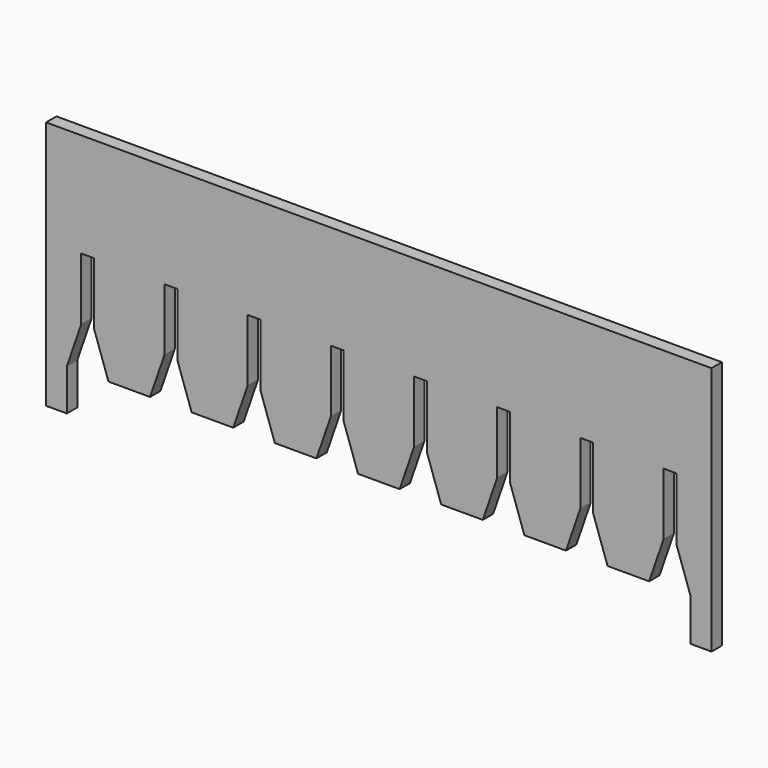
from build123d import *

# Parameters (mm, degrees)
F0_W     = 152.4
F0_H     = 25.4
F1_DEPTH = 1.5875
F3_DEPTH = 1.5885
F4_W     = 71.12
F4_H     = 25.4
F5_DEPTH = 1.5885
F6_W     = 2.54
F6_H     = 5.08
F7_DEPTH = 1.5875


with BuildPart() as f1:
    # F0 (on Front) → F1 (new body)
    with BuildSketch(Plane.XZ):
        with Locations((76.2, 12.7)):
            Rectangle(F0_W, F0_H)
    extrude(amount=F1_DEPTH)

    # F2 (on Front) → F3 (cut, through all)
    with BuildSketch(Plane.XZ):
        Polygon((4.2926, 5.08), (2.54, 0), (7.62, 0), (5.8674, 5.08), (5.8674, 12.7), (4.2926, 12.7), align=None)
        Polygon((14.4526, 5.08), (12.7, 0), (17.78, 0), (16.0274, 5.08), (16.0274, 12.7), (14.4526, 12.7), align=None)
        Polygon((24.6126, 5.08), (22.86, 0), (27.94, 0), (26.1874, 5.08), (26.1874, 12.7), (24.6126, 12.7), align=None)
        Polygon((34.7726, 5.08), (33.02, 0), (38.1, 0), (36.3474, 5.08), (36.3474, 12.7), (34.7726, 12.7), align=None)
        Polygon((44.9326, 5.08), (43.18, 0), (48.26, 0), (46.5074, 5.08), (46.5074, 12.7), (44.9326, 12.7), align=None)
        Polygon((55.0926, 5.08), (53.34, 0), (58.42, 0), (56.6674, 5.08), (56.6674, 12.7), (55.0926, 12.7), align=None)
        Polygon((65.2526, 5.08), (63.5, 0), (68.58, 0), (66.8274, 5.08), (66.8274, 12.7), (65.2526, 12.7), align=None)
        Polygon((75.4126, 5.08), (73.66, 0), (78.74, 0), (76.9874, 5.08), (76.9874, 12.7), (75.4126, 12.7), align=None)
    extrude(amount=F3_DEPTH, mode=Mode.SUBTRACT)

    # F4 (on face) → F5 (cut, through all)
    with BuildSketch(Plane.XZ.offset(1.5875)):
        with Locations((116.84, 12.7)):
            Rectangle(F4_W, F4_H)
    extrude(amount=-F5_DEPTH, mode=Mode.SUBTRACT)

    # F6 (on face) → F7 (join, through all)
    with BuildSketch(Plane.XZ.offset(1.5875)):
        with Locations((1.27, -2.54)):
            Rectangle(F6_W, F6_H)
        with Locations((80.01, -2.54)):
            Rectangle(F6_W, F6_H)
    extrude(amount=-F7_DEPTH)


solid = f1.part
